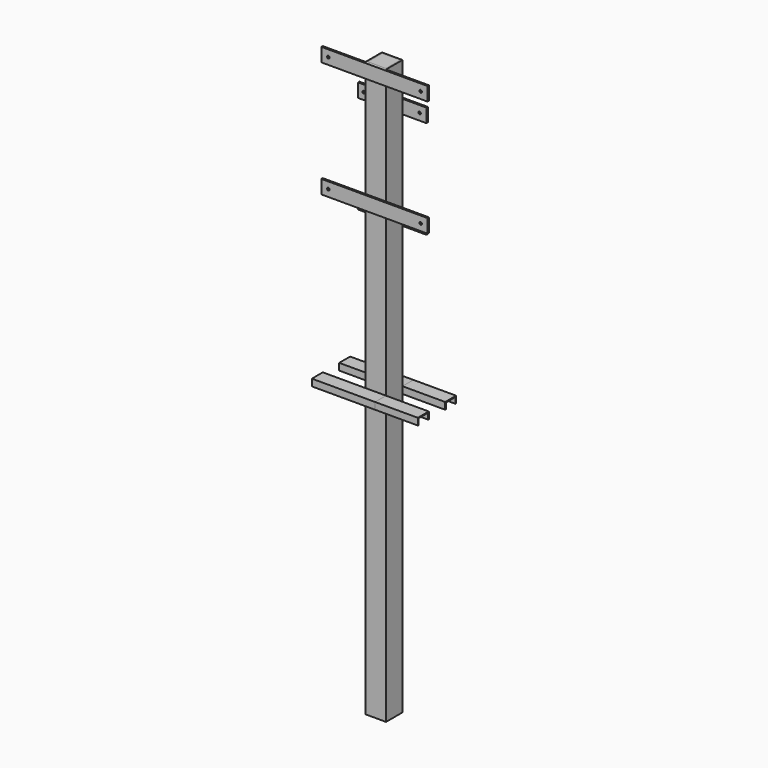
from build123d import *

# Parameters (mm, degrees)
F0_W      = 76.2
F0_H      = 76.2
F0_W_2    = 66.675
F0_H_2    = 66.675
F1_DEPTH  = 2133.6
F2_W      = 66.675
F2_H      = 66.675
F4_DEPTH  = 4.7625
F5_W      = 158.75
F5_H      = 50.8105754852
F5_R      = 4.7625
F5_W_2    = 76.2
F5_H_2    = 50.8
F6_DEPTH  = 6.35
F7_W      = 88.9
F7_H      = 50.8
F7_R      = 4.7625
F7_W_2    = 76.2
F8_DEPTH  = 6.35
F10_DEPTH = 158.75
F11_DEPTH = 234.95


with BuildPart() as f1:
    # F0 (on Top) → F1 (new body)
    with BuildSketch(Plane.XY):
        with Locations((-0.0228539575, -0.3835560492)):
            Rectangle(F0_W, F0_H)
        with Locations((-0.0228539575, -0.3835560492)):
            Rectangle(F0_W_2, F0_H_2, mode=Mode.SUBTRACT)
    extrude(amount=F1_DEPTH)

    # F5 (on face) → F6 (join)
    with BuildSketch(Plane.XZ.offset(38.4835560492)):
        with Locations((-117.4978539575, 1676.3947122574)):
            Rectangle(F5_W, F5_H)
        with Locations((-171.4728539575, 1676.4)):
            Circle(F5_R, mode=Mode.SUBTRACT)
        with Locations((117.4521460425, 1676.3947122574)):
            Rectangle(F5_W, F5_H)
        with Locations((171.4271460425, 1676.4)):
            Circle(F5_R, mode=Mode.SUBTRACT)
        with Locations((-0.0228539575, 1676.3947122574)):
            Rectangle(F5_W_2, F5_H)
        with Locations((-117.4978539575, 2108.2)):
            Rectangle(F5_W, F5_H_2)
        with Locations((-171.4728539575, 2108.2)):
            Circle(F5_R, mode=Mode.SUBTRACT)
        with Locations((-0.0228539575, 2108.2)):
            Rectangle(F5_W_2, F5_H_2)
        with Locations((117.4521460425, 2108.2)):
            Rectangle(F5_W, F5_H_2)
        with Locations((171.4271460425, 2108.2)):
            Circle(F5_R, mode=Mode.SUBTRACT)
    extrude(amount=F6_DEPTH)

    # F7 (on face) → F8 (join)
    with BuildSketch(Plane(origin=(0, 37.7164439508, 0), x_dir=(-1, 0, 0), z_dir=(0, 1, 0))):
        with Locations((-82.5271460425, 1981.2)):
            Rectangle(F7_W, F7_H)
        with Locations((-101.5771460425, 1981.2)):
            Circle(F7_R, mode=Mode.SUBTRACT)
        with Locations((82.5728539575, 1981.2)):
            Rectangle(F7_W, F7_H)
        with Locations((106.3853539575, 1981.2)):
            Circle(F7_R, mode=Mode.SUBTRACT)
        with Locations((82.5728539575, 1616.2660747699)):
            Rectangle(F7_W, F7_H)
        with Locations((107.0330470852, 1616.2660747699)):
            Circle(F7_R, mode=Mode.SUBTRACT)
        with Locations((0.0228539575, 1981.2)):
            Rectangle(F7_W_2, F7_H)
        with Locations((0.0228539575, 1616.2660747699)):
            Rectangle(F7_W_2, F7_H)
        with Locations((-82.5271460425, 1616.2660747699)):
            Rectangle(F7_W, F7_H)
        with Locations((-100.9294529148, 1616.2660747699)):
            Circle(F7_R, mode=Mode.SUBTRACT)
    extrude(amount=F8_DEPTH)


with BuildPart() as f4:
    # F2 (on face) → F4 (new body)
    with BuildSketch(Plane.XY.offset(2133.6)):
        with Locations((-0.0228539575, -0.3835560492)):
            Rectangle(F2_W, F2_H)
    extrude(amount=-F4_DEPTH)


with BuildPart() as f10:
    # F9 (on face) → F10 (new body)
    with BuildSketch(Plane.YZ.offset(38.0771460425)):
        Polygon((-38.4835560492, 1041.4), (-38.4835560492, 1066.8), (-89.2835560492, 1066.8), (-89.2835560492, 1041.4), (-86.1085560492, 1041.4), (-86.1085560492, 1063.625), (-41.6585560492, 1063.625), (-41.6585560492, 1041.4), align=None)
    extrude(amount=F10_DEPTH)


with BuildPart() as f10b:
    # F9 (on face) → F10, piece 2 (new body)
    with BuildSketch(Plane.YZ.offset(38.0771460425)):
        Polygon((37.7164439508, 1066.8), (37.7164439508, 1041.4), (40.8914439508, 1041.4), (40.8914439508, 1063.625), (85.3414439508, 1063.625), (85.3414439508, 1041.4), (88.5164439508, 1041.4), (88.5164439508, 1066.8), align=None)
    extrude(amount=F10_DEPTH)


with BuildPart() as f11:
    # F11 (new): a face of the model
    f11_faces = [f10b.part.faces().sort_by_distance(p)[0] for p in [
        (38.0771460425, 38.2844052171, 1054.1),
    ]]
    extrude(f11_faces, amount=F11_DEPTH)


with BuildPart() as f11b:
    # F11#2 (new): a face of the model
    f11_2_faces = [f10.part.faces().sort_by_distance(p)[0] for p in [
        (38.0771460425, -39.0515173155, 1054.1),
    ]]
    extrude(f11_2_faces, amount=F11_DEPTH)


solid = Compound([f1.part, f4.part, f10.part, f10b.part, f11.part, f11b.part])
